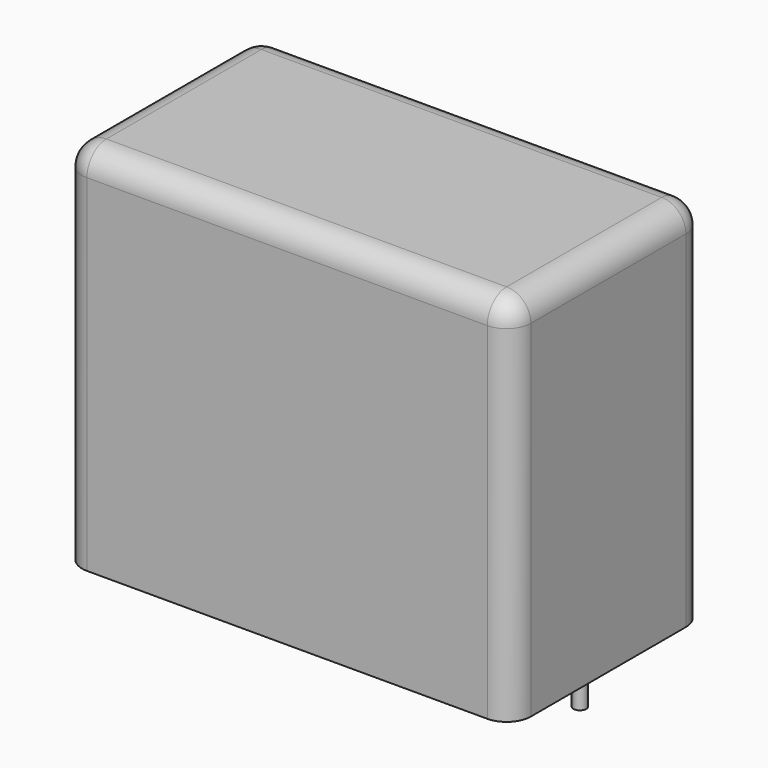
from build123d import *

# Parameters (mm, degrees)
SKETCH_W     = 31.5
SKETCH_H     = 17
PAD_DEPTH    = 26
FILLET_R     = 1.7
SKETCH001_R  = 0.45
PAD001_DEPTH = 3.2


with BuildPart() as fillet_body:
    # Sketch → Pad (new body)
    with BuildSketch(Plane.XY.offset(0.1)):
        with Locations((13.75, 0)):
            Rectangle(SKETCH_W, SKETCH_H)
    extrude(amount=PAD_DEPTH)

    # Fillet
    fillet_edges = [fillet_body.edges().sort_by_distance(p)[0] for p in [
        (-2, 0, 26.1),
        (-2, -8.5, 13.1),
        (13.75, -8.5, 26.1),
        (29.5, -8.5, 13.1),
        (29.5, 0, 26.1),
        (29.5, 8.5, 13.1),
        (13.75, 8.5, 26.1),
        (-2, 8.5, 13.1),
    ]]
    fillet(fillet_edges, radius=FILLET_R)


with BuildPart() as pad001:
    # Sketch001 → Pad001 (new body)
    with BuildSketch(Plane.XY.offset(0.5)):
        Circle(SKETCH001_R)
        with Locations((27.5, 0)):
            Circle(SKETCH001_R)
    extrude(amount=-PAD001_DEPTH)


solid = Compound([fillet_body.part, pad001.part])
